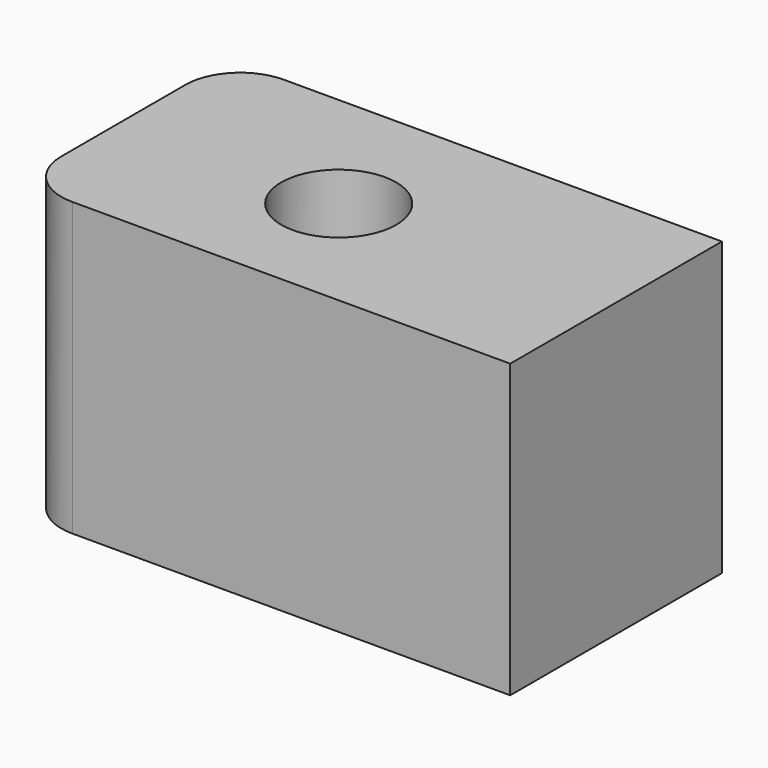
from build123d import *

# Parameters (mm, degrees)
CYLINDER002_R     = 3.15
CYLINDER002_DEPTH = 24
BOX002_W          = 27
BOX002_H          = 14.5
BOX002_DEPTH      = 16
FILLET_R          = 3


with BuildPart() as cylinder002:
    # Cylinder002 → Cylinder002 (new body)
    with BuildSketch(Plane(origin=(-15, 37.5, 25), x_dir=(1, 0, 0), z_dir=(0, 0, 1))):
        Circle(CYLINDER002_R)
    extrude(amount=CYLINDER002_DEPTH)


with BuildPart() as cut002002002007004004001003:
    # Box002 → Box002 (new body)
    with BuildSketch(Plane(origin=(-27, 30.5, 30), x_dir=(1, 0, 0), z_dir=(0, 0, 1))):
        with Locations((13.5, 7.25)):
            Rectangle(BOX002_W, BOX002_H)
    extrude(amount=BOX002_DEPTH)

    # Fillet
    fillet_edges = [cut002002002007004004001003.edges().sort_by_distance(p)[0] for p in [
        (-27, 30.5, 38),
        (-27, 45, 38),
    ]]
    fillet(fillet_edges, radius=FILLET_R)

    # Cut002002002007004004001003: cut Cylinder002
    add(cylinder002.part, mode=Mode.SUBTRACT)


solid = cut002002002007004004001003.part
